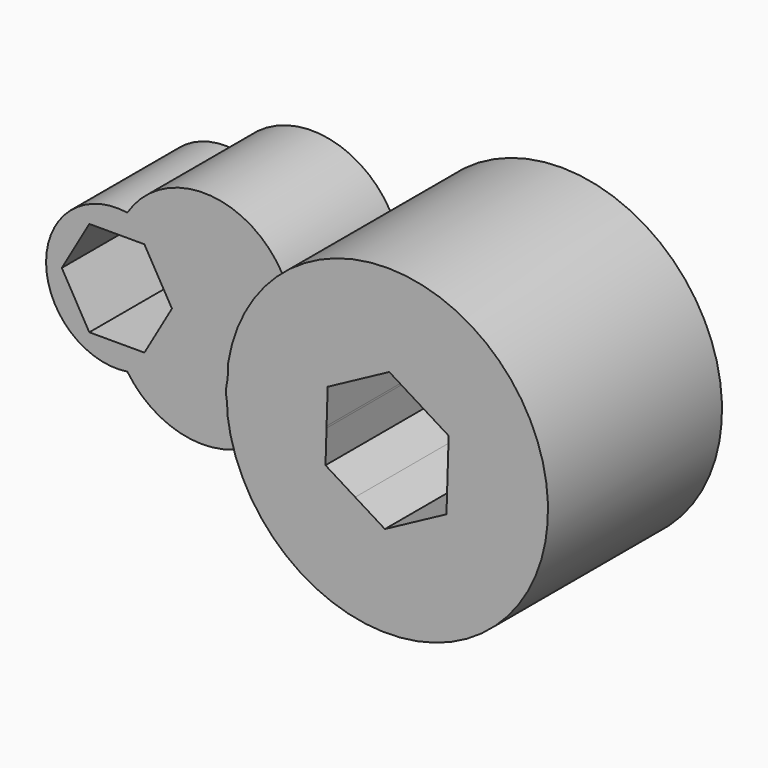
from build123d import *

# Parameters (mm, degrees)
F1_DEPTH = 152.146
F2_DEPTH = 94.488


with BuildPart() as f1:
    # F0 (on Front) → F1 (new body)
    with BuildSketch(Plane.XZ):
        with BuildLine():
            ThreePointArc((0.4526032795, 1.9327571379), (0.4401595471, 0.9664141762), (0.4360115344, 0))
            ThreePointArc((0.4360115344, 0), (0.4426925247, -1.226482149), (0.4627347027, -2.4528187294))
            ThreePointArc((0.4627347027, -2.4528187294), (1.1714430267, -8.3063495139), (1.3351810791, -14.2003532452))
            ThreePointArc((1.3351810791, -14.2003532452), (120.1312549847, -112.3558299034), (225.5977058595, 0))
            ThreePointArc((225.5977058595, 0), (121.9420537099, 112.226503295), (1.8511564374, 17.7942066128))
            ThreePointArc((1.8511564374, 17.7942066128), (1.6536561877, 9.8192387013), (0.4526032795, 1.9327571379))
        make_face()
        Polygon((69.9408825416, -23.1039831212), (70.6640993439, 0), (70.7055584238, 1.3244574512), (71.4702343077, 25.7528980827), (93.008221817, 37.3048893384), (114.546210463, 48.8568812039), (135.3195228272, 35.9804320574), (156.0928348522, 23.1039831212), (155.3281589943, -1.3244566777), (154.5634830861, -25.7528980827), (133.0254955769, -37.3048893384), (111.4875069308, -48.8568812039), (90.7141945666, -35.9804320574), align=None, mode=Mode.SUBTRACT)
    extrude(amount=F1_DEPTH)


with BuildPart() as f2:
    # F0 (on Front) → F2 (new body)
    with BuildSketch(Plane.XZ):
        with BuildLine():
            ThreePointArc((-114.7697592412, -48.9557540122), (-84.6045163022, -32.3027311445), (-72.6129103709, 0))
            ThreePointArc((-72.6129103709, 0), (-84.6045163022, 32.3027311445), (-114.7697592412, 48.9557540122))
            ThreePointArc((-114.7697592412, 48.9557540122), (-171.6209213923, 0), (-114.7697592412, -48.9557540122))
        make_face()
        Polygon((-102.8542285015, 33.3639532328), (-83.5915411213, 0), (-102.8542285015, -33.3639532328), (-141.3796032618, -33.3639532328), (-160.642290642, 0), (-141.3796032618, 33.3639532328), align=None, mode=Mode.SUBTRACT)
        with BuildLine():
            Line((-72.6129103709, 0), (0, 0))
            ThreePointArc((0, 0), (0.2338940897, 0.9646006075), (0.4526032795, 1.9327571379))
            ThreePointArc((0.4526032795, 1.9327571379), (0.8711058331, 9.8882385913), (1.8511564374, 17.7942066128))
            ThreePointArc((1.8511564374, 17.7942066128), (-44.9641401637, 76.3951876303), (-114.7697592412, 48.9557540122))
            ThreePointArc((-114.7697592412, 48.9557540122), (-84.6045163022, 32.3027311445), (-72.6129103709, 0))
        make_face()
        with BuildLine():
            ThreePointArc((0.4627347027, -2.4528187294), (0.2433979729, -1.2241397367), (0, 0))
            Line((0, 0), (-72.6129103709, 0))
            ThreePointArc((-72.6129103709, 0), (-84.6045163022, -32.3027311445), (-114.7697592412, -48.9557540122))
            ThreePointArc((-114.7697592412, -48.9557540122), (-44.0288817134, -73.9653300711), (1.3351810791, -14.2003532452))
            ThreePointArc((1.3351810791, -14.2003532452), (0.7452023319, -8.3380048497), (0.4627347027, -2.4528187294))
        make_face()
    extrude(amount=F2_DEPTH)


solid = Compound([f1.part, f2.part])
